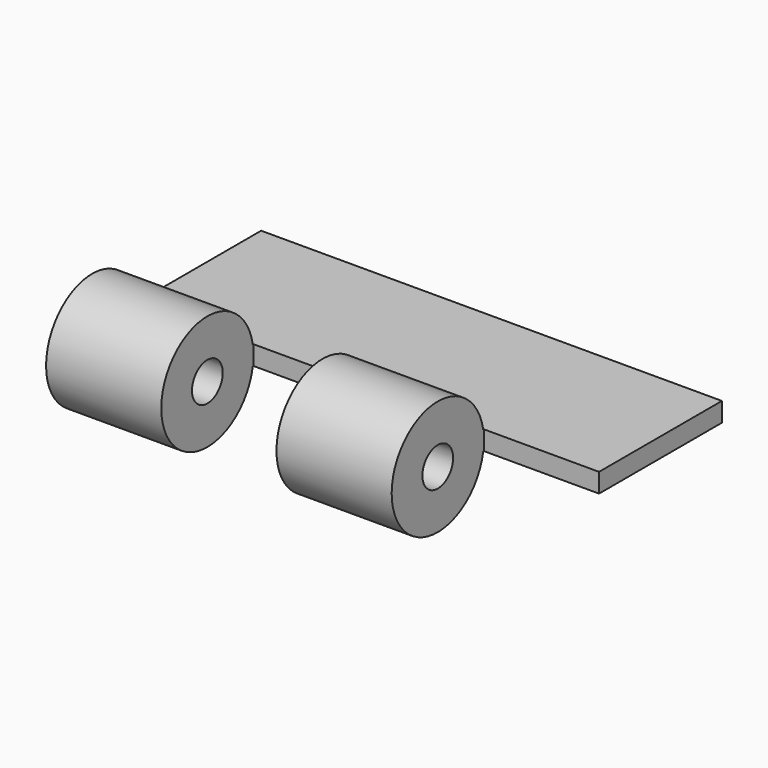
from build123d import *

# Parameters (mm, degrees)
F1_DEPTH = 1.5875
F2_W     = 19.05
F2_H     = 6.35


with BuildPart() as f1:
    # F0 (on Top) → F1 (new body, symmetric)
    with BuildSketch(Plane.XY):
        Polygon((76.2, 31.75), (0, 31.75), (0, 0), (19.05, 0), (19.05, 6.35), (38.1, 6.35), (38.1, 0), (57.15, 0), (57.15, 6.35), (76.2, 6.35), align=None)
    extrude(amount=F1_DEPTH, both=True)

    # F2 (on Top) → F3 (revolve)
    with BuildSketch(Plane.XY):
        with Locations((47.625, 3.175)):
            Rectangle(F2_W, F2_H)
        with Locations((9.525, 3.175)):
            Rectangle(F2_W, F2_H)
    revolve(axis=Axis((45.199081, -3.175, 0), (1, 0, 0)))


solid = f1.part
